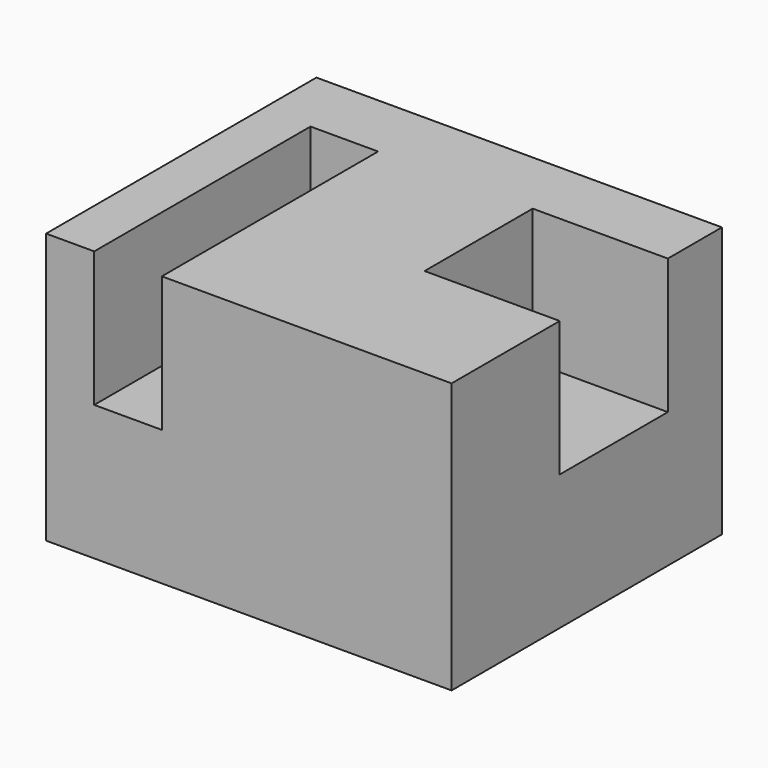
from build123d import *

# Parameters (mm, degrees)
F0_W     = 76.2
F0_H     = 50.8
F1_DEPTH = 63.5
F2_W     = 12.7
F2_H     = 50.8
F3_DEPTH = 25.4
F4_W     = 25.4
F4_H     = 25.4
F5_DEPTH = 25.4


with BuildPart() as f1:
    # F0 (on Front) → F1 (new body)
    with BuildSketch(Plane.XZ):
        with Locations((8.374921, 3.300743)):
            Rectangle(F0_W, F0_H)
    extrude(amount=F1_DEPTH)

    # F2 (on face) → F3 (cut)
    with BuildSketch(Plane.XY.offset(28.700743)):
        with Locations((-14.327138, -38.1)):
            Rectangle(F2_W, F2_H)
    extrude(amount=-F3_DEPTH, mode=Mode.SUBTRACT)

    # F4 (on face) → F5 (cut)
    with BuildSketch(Plane.XY.offset(28.700743)):
        with Locations((33.774921, -25.4)):
            Rectangle(F4_W, F4_H)
    extrude(amount=-F5_DEPTH, mode=Mode.SUBTRACT)


solid = f1.part
